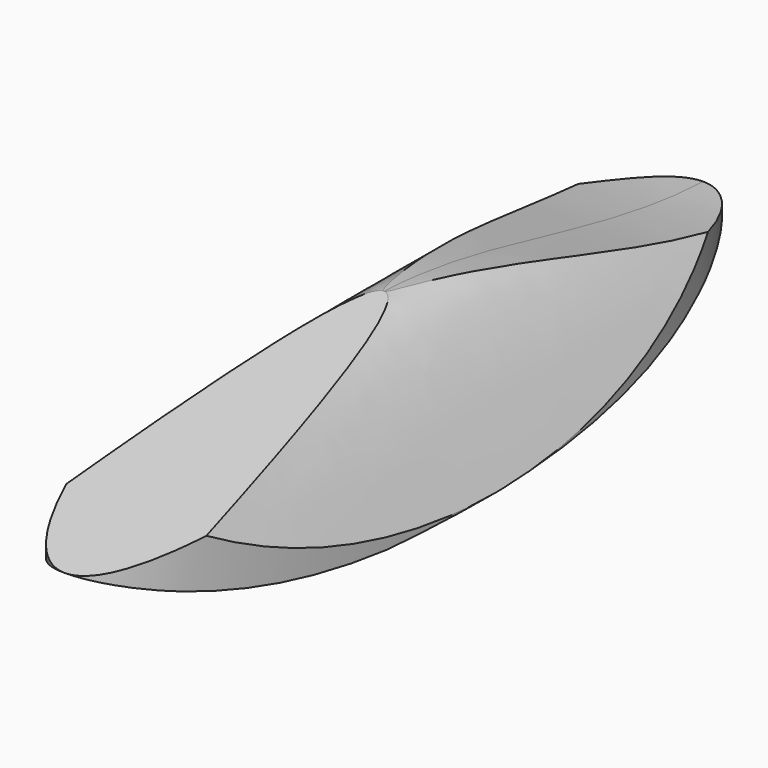
from build123d import *

# Parameters (mm, degrees)
F3_DEPTH = 56
F4_DEPTH = 44
F5_START = 79.001000109
F5_DEPTH = 405.001000109


with BuildPart() as f3:
    # F0 (on Top) → F3 (new body)
    with BuildSketch(Plane.XY):
        with BuildLine():
            add(Edge.make_bspline(
                [(-22, 0), (-22, -136.8320137979), (11, -68.416006899), (44, 0), (11, 68.416006899), (-22, 136.8320137979), (-22, 0)],
                knots=[4.7123889804, 4.7123889804, 4.7123889804, 6.8067840828, 6.8067840828, 8.9011791852, 8.9011791852, 10.9955742876, 10.9955742876, 10.9955742876], degree=2, weights=[1, 0.5, 1, 0.5, 1, 0.5, 1]))
        make_face()
    extrude(amount=F3_DEPTH)

    # F1 (on Right) → F4 (intersect, symmetric)
    with BuildSketch(Plane.YZ):
        with BuildLine():
            add(Edge.make_bspline(
                [(-79, 11), (-51.1182835353, -0.3137725108), (1.5799963697, -1.2725486757), (52.542939813, 2.8113026103), (79, 15)],
                knots=[0, 0, 0, 0, 0.5036947665, 1, 1, 1, 1], degree=3))
            add(Edge.make_bspline(
                [(79, 15), (51.8333333333, 16), (27.1666666667, 27), (0, 28)],
                knots=[0, 0, 0, 0, 80.062475605, 80.062475605, 80.062475605, 80.062475605], degree=3))
            Line((0, 28), (-79, 11))
        make_face()
    extrude(amount=F4_DEPTH, both=True, mode=Mode.INTERSECT)

    # F2 (on Front) → F5 (intersect)
    with BuildSketch(Plane.XZ.offset(F5_START)):
        with BuildLine():
            add(Edge.make_bspline(
                [(-22, 0), (-14.6666666667, 14), (0, 42), (14.6666666667, 14), (22, 0)],
                knots=[0, 0, 0, 0, 0.5, 1, 1, 1, 1], degree=3))
            Line((-22, 0), (22, 0))
        make_face()
    extrude(amount=-F5_DEPTH, mode=Mode.INTERSECT)


solid = f3.part
